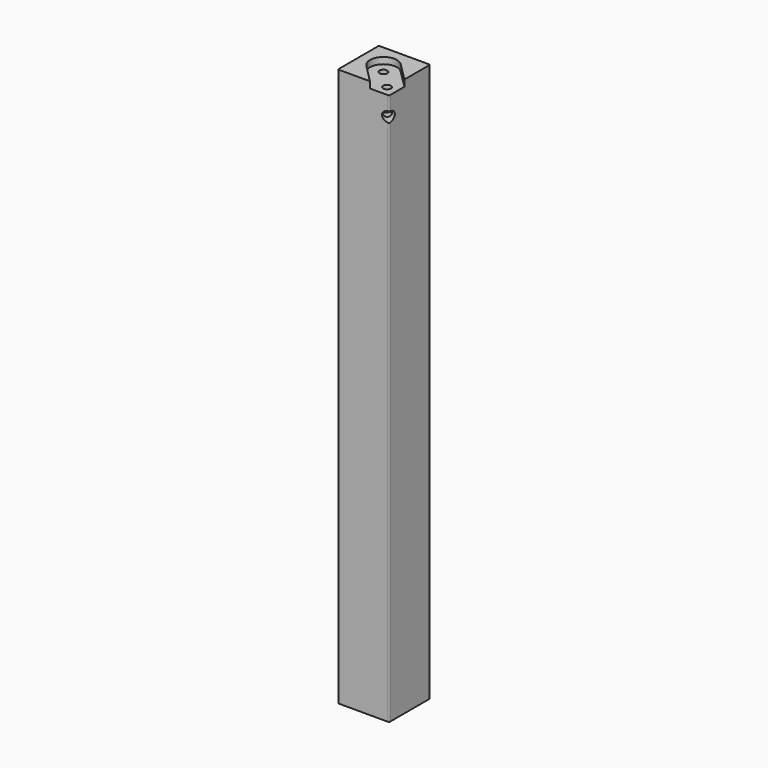
from build123d import *

# Parameters (mm, degrees)
F0_W      = 63.5
F0_H      = 63.5
F1_DEPTH  = 692.15
F2_R      = 4.7625
F3_DEPTH  = 50.8
F5_R      = 6.35
F6_DEPTH  = 60.325
F7_R      = 1.5875
F8_R      = 4.7625
F9_DEPTH  = 50.8
F10_R     = 4.7625
F11_DEPTH = 7.9375


with BuildPart() as f1:
    # F0 (on Top) → F1 (new body)
    with BuildSketch(Plane.XY):
        Rectangle(F0_W, F0_H)
    extrude(amount=-F1_DEPTH)

    # F2 (on face) → F3 (cut)
    with BuildSketch(Plane.XY):
        with Locations((-3.577416998, 3.577416998)):
            Circle(F2_R)
        with Locations((19.05, -19.05)):
            Circle(F2_R)
    extrude(amount=-F3_DEPTH, mode=Mode.SUBTRACT)

    # F5 (on face) → F6 (cut)
    with BuildSketch(Plane(origin=(31.75, -31.75, 0), x_dir=(0.7071067812, 0.7071067812, 0), z_dir=(0.7071067812, -0.7071067812, 0))):
        with Locations((0, -31.75)):
            Circle(F5_R)
    extrude(amount=-F6_DEPTH, mode=Mode.SUBTRACT)

    # F7
    f7_edges = [f1.edges().sort_by_distance(p)[0] for p in [
        (-31.75, -31.75, -346.075),
        (-31.75, 31.75, -346.075),
        (31.75, -31.75, -12.7),
        (31.75, -31.75, -365.125),
        (31.75, 31.75, -346.075),
    ]]
    fillet(f7_edges, radius=F7_R)

    # F8 (on face) → F9 (cut)
    with BuildSketch(Plane(origin=(0, 0, -692.15), x_dir=(1, 0, 0), z_dir=(0, 0, -1))):
        Circle(F8_R)
    extrude(amount=-F9_DEPTH, mode=Mode.SUBTRACT)

    # F10 (on face) → F11 (cut)
    with BuildSketch(Plane.XY):
        with BuildLine():
            Line((31.75, -7.9375), (8.5502364646, 15.0226181746))
            ThreePointArc((8.5502364646, 15.0226181746), (-14.9615861589, 14.9615861589), (-15.0226181746, -8.5502364646))
            Line((-15.0226181746, -8.5502364646), (7.9375, -31.75))
            Line((7.9375, -31.75), (30.1625, -31.75))
            ThreePointArc((30.1625, -31.75), (31.2850320151, -31.2850320151), (31.75, -30.1625))
            Line((31.75, -30.1625), (31.75, -7.9375))
        make_face()
        with Locations((19.05, -19.05)):
            Circle(F10_R, mode=Mode.SUBTRACT)
        with Locations((-3.577416998, 3.577416998)):
            Circle(F10_R, mode=Mode.SUBTRACT)
    extrude(amount=-F11_DEPTH, mode=Mode.SUBTRACT)


solid = f1.part
